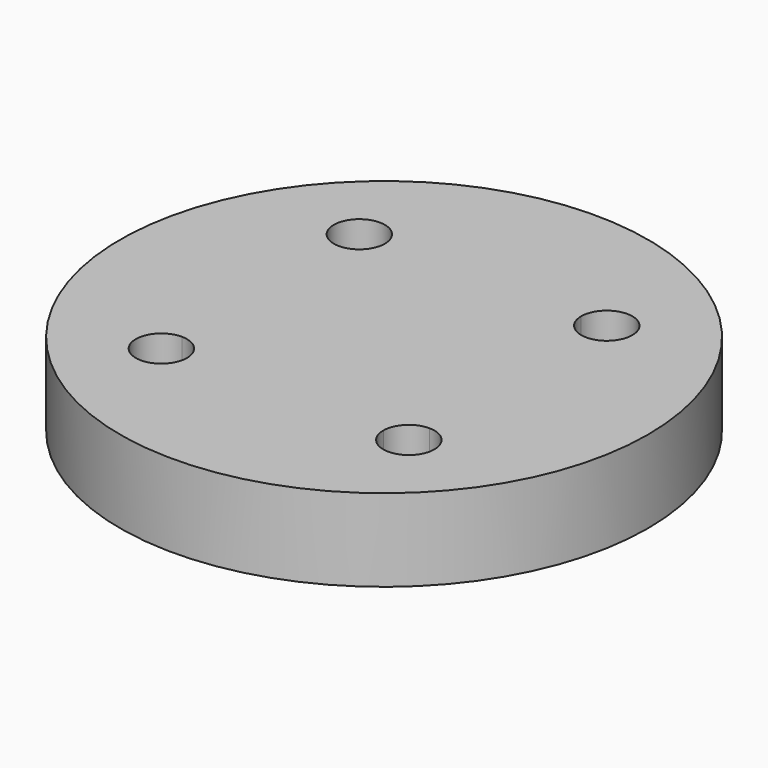
from build123d import *

# Parameters (mm, degrees)
F0_R     = 16
F1_DEPTH = 5


with BuildPart() as f1:
    # F0 (on Top) → F1 (new body)
    with BuildSketch(Plane.XY):
        Circle(F0_R)
        with BuildLine():
            Line((5.95, -7.5), (-5.95, -7.5))
            ThreePointArc((-5.95, -7.5), (-8.5960155108, -8.5960155108), (-7.5, -5.95))
            Line((-7.5, -5.95), (-7.5, 5.95))
            ThreePointArc((-7.5, 5.95), (-8.5960155108, 8.5960155108), (-5.95, 7.5))
            Line((-5.95, 7.5), (5.95, 7.5))
            ThreePointArc((5.95, 7.5), (7.5, 9.05), (9.05, 7.5))
            ThreePointArc((9.05, 7.5), (8.5960155108, 6.4039844892), (7.5, 5.95))
            Line((7.5, 5.95), (7.5, -5.95))
            ThreePointArc((7.5, -5.95), (8.5960155108, -6.4039844892), (9.05, -7.5))
            ThreePointArc((9.05, -7.5), (7.5, -9.05), (5.95, -7.5))
        make_face(mode=Mode.SUBTRACT)
        with BuildLine():
            ThreePointArc((-7.5, -5.95), (-6.4039844892, -6.4039844892), (-5.95, -7.5))
            Line((-5.95, -7.5), (5.95, -7.5))
            ThreePointArc((5.95, -7.5), (6.4039844892, -6.4039844892), (7.5, -5.95))
            Line((7.5, -5.95), (7.5, 5.95))
            ThreePointArc((7.5, 5.95), (6.4039844892, 6.4039844892), (5.95, 7.5))
            Line((5.95, 7.5), (-5.95, 7.5))
            ThreePointArc((-5.95, 7.5), (-6.4039844892, 6.4039844892), (-7.5, 5.95))
            Line((-7.5, 5.95), (-7.5, -5.95))
        make_face()
    extrude(amount=F1_DEPTH)


solid = f1.part
